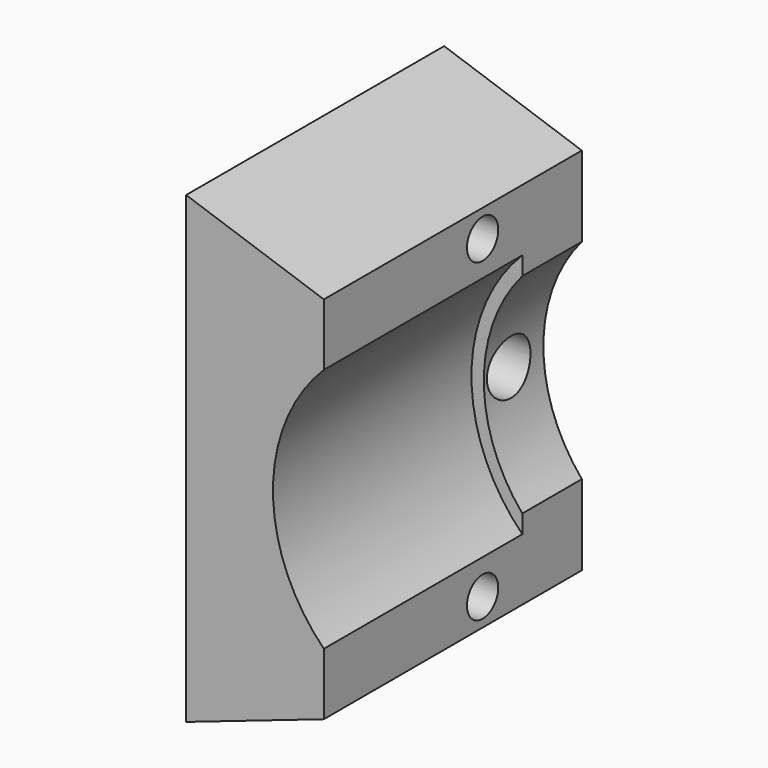
from build123d import *

# Parameters (mm, degrees)
F2_DEPTH       = 20
F4_DEPTH       = 6
F6_D           = 3.15
F7_D           = 4.4
F7_CBORE_D     = 8.25
F7_CBORE_DEPTH = 5


with BuildPart() as f2:
    # F1 (on Front) → F2 (new body)
    with BuildSketch(Plane.XZ):
        with BuildLine():
            ThreePointArc((-9.8994949366, -9.8994949366), (-14, 0), (-9.8994949366, 9.8994949366))
            Line((-9.8994949366, 9.8994949366), (-9.8994949366, 14.8994949366))
            Line((-9.8994949366, 14.8994949366), (-21, 18.7))
            Line((-21, 18.7), (-21, -18.7))
            Line((-21, -18.7), (-9.8994949366, -14.8994949366))
            Line((-9.8994949366, -14.8994949366), (-9.8994949366, -9.8994949366))
        make_face()
    extrude(amount=F2_DEPTH)

    # F3 (on face) → F4 (join)
    with BuildSketch(Plane(origin=(0, 0, 0), x_dir=(-1, 0, 0), z_dir=(0, 1, 0))):
        with BuildLine():
            Line((9.8994949366, 14.8994949366), (9.8994949366, 8.4261497732))
            ThreePointArc((9.8994949366, 8.4261497732), (13, 0), (9.8994949366, -8.4261497732))
            Line((9.8994949366, -8.4261497732), (9.8994949366, -14.8994949366))
            Line((9.8994949366, -14.8994949366), (21, -18.7))
            Line((21, -18.7), (21, 18.7))
            Line((21, 18.7), (9.8994949366, 14.8994949366))
        make_face()
    extrude(amount=F4_DEPTH)

    # F6 (through all)
    with Locations(Plane(origin=(-21, 0, 0), x_dir=(0, -1, 0), z_dir=(-1, 0, 0))):
        with Locations((4, 12.7), (4, -12.7)):
            Hole(F6_D / 2)

    # F7 (through all)
    with Locations(Plane(origin=(-21, 0, 0), x_dir=(0, -1, 0), z_dir=(-1, 0, 0))):
        with Locations((-2.5, 0)):
            CounterBoreHole(F7_D / 2, F7_CBORE_D / 2, F7_CBORE_DEPTH)


solid = f2.part
